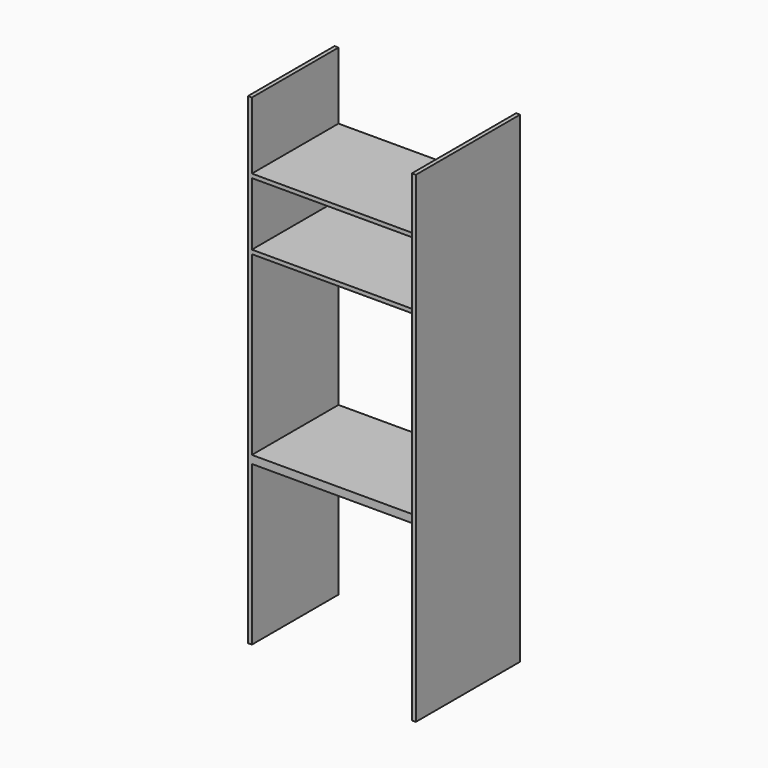
from build123d import *

# Parameters (mm, degrees)
F0_W     = 804
F0_H     = 800
F0_H_2   = 285
F1_DEPTH = 490
F2_W     = 100
F2_H     = 2180
F3_DEPTH = 18


with BuildPart() as f1:
    # F0 (on Front) → F1 (new body)
    with BuildSketch(Plane.XZ):
        Polygon((0, 2180), (0, 0), (18, 0), (18, 720), (822, 720), (822, 0), (840, 0), (840, 2180), (822, 2180), (822, 2162), (822, 1877), (18, 1877), (18, 2162), (18, 2180), align=None)
        with Locations((420, 1156)):
            Rectangle(F0_W, F0_H, mode=Mode.SUBTRACT)
        with Locations((420, 1716.5)):
            Rectangle(F0_W, F0_H_2, mode=Mode.SUBTRACT)
    extrude(amount=F1_DEPTH)

    # F2 (on face) → F3 (join)
    with BuildSketch(Plane.YZ.offset(840)):
        with Locations((-540, 1090)):
            Rectangle(F2_W, F2_H)
    extrude(amount=-F3_DEPTH)


solid = f1.part
